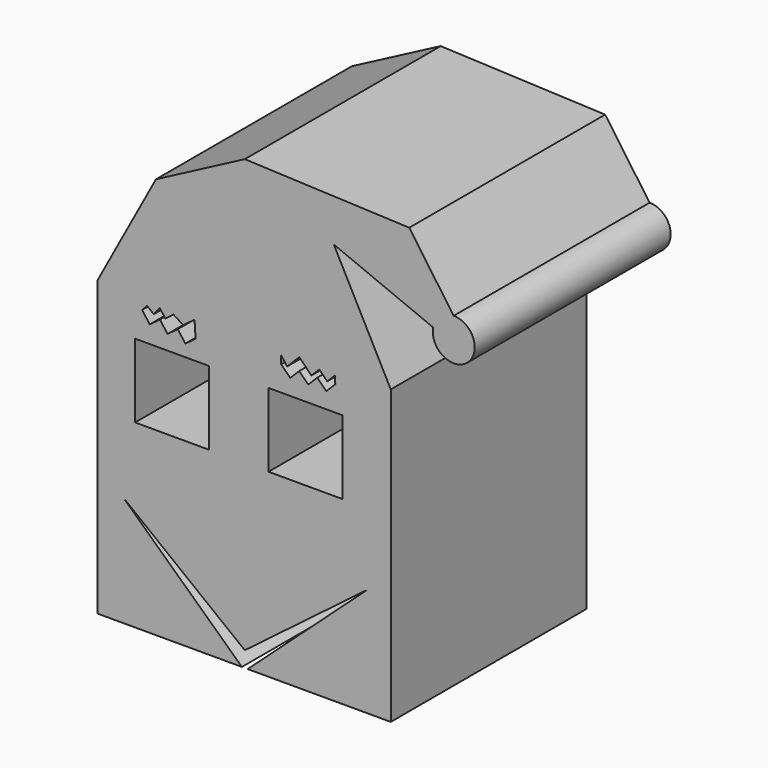
from build123d import *

# Parameters (mm, degrees)
F0_W     = 38.259773
F0_H     = 38.259772
F0_W_2   = 38.259772
F1_DEPTH = 127


with BuildPart() as f1:
    # F0 (on Front) → F1 (new body)
    with BuildSketch(Plane.XZ):
        Polygon((-1.480275, -75.753056), (-63.029461, -18.419569), (0, -67.634352), (63.677665, -19.261191), (1.517248, -75.753056), (75.698244, -75.753056), (75.698244, 76.035975), (-76.445349, 76.268949), (-76.445349, -75.753056), align=None)
        with Locations((-37.750917, 36.969415)):
            Rectangle(F0_W, F0_H, mode=Mode.SUBTRACT)
        with Locations((31.434221, 36.969415)):
            Rectangle(F0_W_2, F0_H, mode=Mode.SUBTRACT)
        Polygon((-49.296099, 65.077743), (-53.221939, 70.389176), (-50.653815, 73.10266), (-47.200143, 70.389176), (-44.124323, 74.304022), (-41.230742, 70.389176), (-36.907537, 73.584587), (-31.946439, 70.389176), (-26.044864, 74.751208), (-25.51012, 66.232399), (-30.821553, 62.306558), (-34.747393, 67.617991), (-40.058826, 63.692151), (-43.984666, 69.003583), align=None, mode=Mode.SUBTRACT)
        Polygon((23.569294, 64.333276), (18.898987, 69.003583), (18.898987, 73.10266), (21.928739, 69.003583), (28.239602, 75.314446), (34.550464, 69.003583), (38.649541, 73.10266), (42.748618, 69.003583), (46.847696, 73.10266), (46.92083, 69.003583), (42.250523, 64.333276), (37.580216, 69.003583), (32.909909, 64.333276), (28.239602, 69.003583), align=None, mode=Mode.SUBTRACT)
        Polygon((-46.067663, 132.356301), (-76.445349, 76.268949), (75.698244, 76.035975), (46.18622, 132.583613), (0, 156.528115), align=None)
        Polygon((0, 156.528115), (46.18622, 132.583613), (85.278795, 152.985897), align=None)
        Polygon((85.278795, 152.985897), (46.18622, 132.583613), (97.734198, 111.462012), align=None)
        Polygon((108.309702, 120.26045), (85.278795, 152.985897), (97.734198, 111.462012), (108.591035, 119.860694), align=None)
        with BuildLine():
            Line((108.591035, 119.860694), (97.734198, 111.462012))
            ThreePointArc((97.734198, 111.462012), (115.323637, 101.074909), (108.309702, 120.26045))
            Line((108.309702, 120.26045), (108.591035, 119.860694))
        make_face()
    extrude(amount=F1_DEPTH)


solid = f1.part
